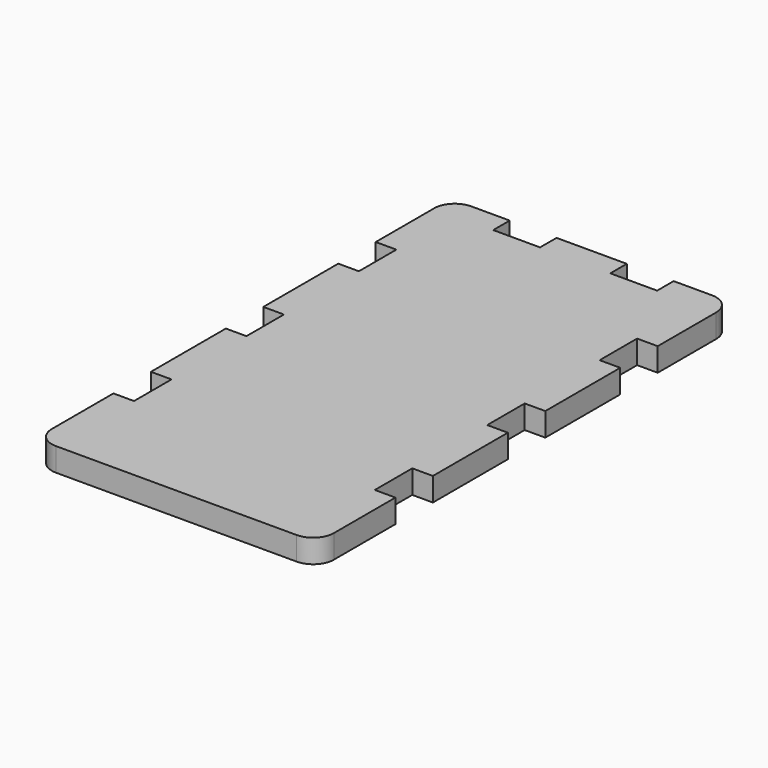
from build123d import *

# Parameters (mm, degrees)
F1_DEPTH = 6.35


with BuildPart() as f1:
    # F0 (on Top) → F1 (new body)
    with BuildSketch(Plane.XY):
        with BuildLine():
            Line((-22.225, 68.875996), (-32.639, 68.875996))
            ThreePointArc((-32.639, 68.875996), (-36.590313, 67.239309), (-38.227, 63.287996))
            Line((-38.227, 63.287996), (-38.227, 43.475996))
            Line((-38.227, 43.475996), (-32.639, 43.475996))
            Line((-32.639, 43.475996), (-32.639, 30.775996))
            Line((-32.639, 30.775996), (-38.227, 30.775996))
            Line((-38.227, 30.775996), (-38.227, 5.375996))
            Line((-38.227, 5.375996), (-32.639, 5.375996))
            Line((-32.639, 5.375996), (-32.639, -7.324004))
            Line((-32.639, -7.324004), (-38.227, -7.324004))
            Line((-38.227, -7.324004), (-38.227, -32.724004))
            Line((-38.227, -32.724004), (-32.639, -32.724004))
            Line((-32.639, -32.724004), (-32.639, -45.424004))
            Line((-32.639, -45.424004), (-38.227, -45.424004))
            Line((-38.227, -45.424004), (-38.227, -52.56587))
            Line((-38.227, -52.56587), (-38.227, -66.302804))
            ThreePointArc((-38.227, -66.302804), (-36.590313, -70.254116), (-32.639, -71.890804))
            Line((-32.639, -71.890804), (-22.225, -71.890804))
            Line((-22.225, -71.890804), (-9.525, -71.890804))
            Line((-9.525, -71.890804), (10.287, -71.890804))
            Line((10.287, -71.890804), (22.987, -71.890804))
            Line((22.987, -71.890804), (32.639, -71.890804))
            ThreePointArc((32.639, -71.890804), (36.590313, -70.254116), (38.227, -66.302804))
            Line((38.227, -66.302804), (38.227, -52.56587))
            Line((38.227, -52.56587), (38.227, -45.424004))
            Line((38.227, -45.424004), (32.639, -45.424004))
            Line((32.639, -45.424004), (32.639, -32.724004))
            Line((32.639, -32.724004), (38.227, -32.724004))
            Line((38.227, -32.724004), (38.227, -7.324004))
            Line((38.227, -7.324004), (32.639, -7.324004))
            Line((32.639, -7.324004), (32.639, 5.375996))
            Line((32.639, 5.375996), (38.227, 5.375996))
            Line((38.227, 5.375996), (38.227, 30.775996))
            Line((38.227, 30.775996), (32.639, 30.775996))
            Line((32.639, 30.775996), (32.639, 43.475996))
            Line((32.639, 43.475996), (38.227, 43.475996))
            Line((38.227, 43.475996), (38.227, 63.287996))
            ThreePointArc((38.227, 63.287996), (36.590313, 67.239309), (32.639, 68.875996))
            Line((32.639, 68.875996), (22.225, 68.875996))
            Line((22.225, 68.875996), (22.225, 63.287996))
            Line((22.225, 63.287996), (9.525, 63.287996))
            Line((9.525, 63.287996), (9.525, 68.875996))
            Line((9.525, 68.875996), (-9.525, 68.875996))
            Line((-9.525, 68.875996), (-9.525, 63.287996))
            Line((-9.525, 63.287996), (-22.225, 63.287996))
            Line((-22.225, 63.287996), (-22.225, 68.875996))
        make_face()
    extrude(amount=F1_DEPTH)


solid = f1.part
